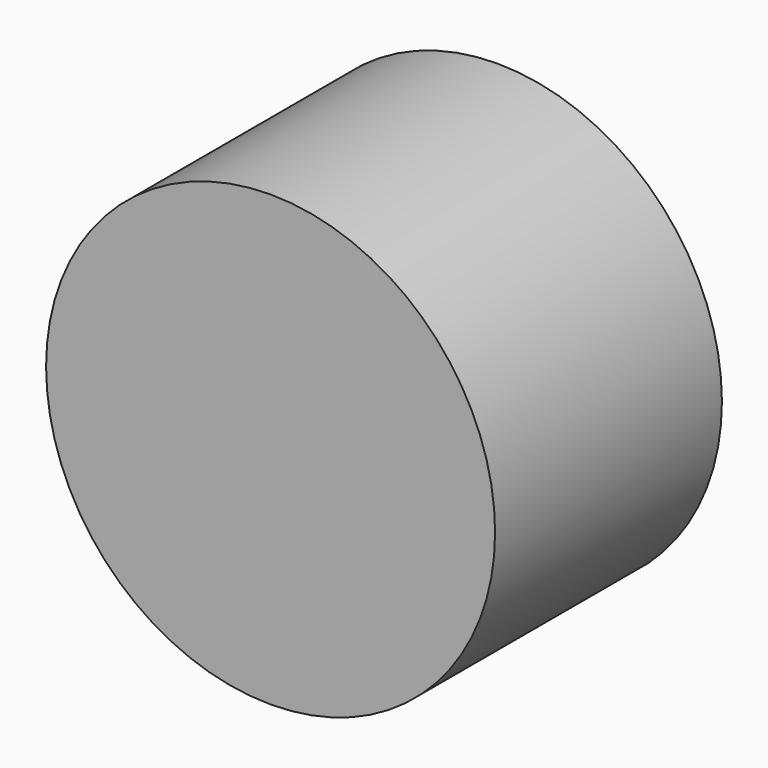
from build123d import *

# Parameters (mm, degrees)
F1_R     = 20.111013
F2_DEPTH = 25.4
F3_W     = 7.812914
F3_H     = 15.625822
F4_DEPTH = 25.4


with BuildPart() as f2:
    # F1 (on Front) → F2 (new body)
    with BuildSketch(Plane.XZ):
        with Locations((0, 20.111013)):
            Circle(F1_R)
        with Locations((0, 20.111013)):
            Circle(F1_R)
    extrude(amount=F2_DEPTH)

    # F3 (on Top) → F4 (cut)
    with BuildSketch(Plane.XY):
        with Locations((0, -13.889621)):
            Rectangle(F3_W, F3_H)
    extrude(amount=F4_DEPTH, mode=Mode.SUBTRACT)


solid = f2.part
